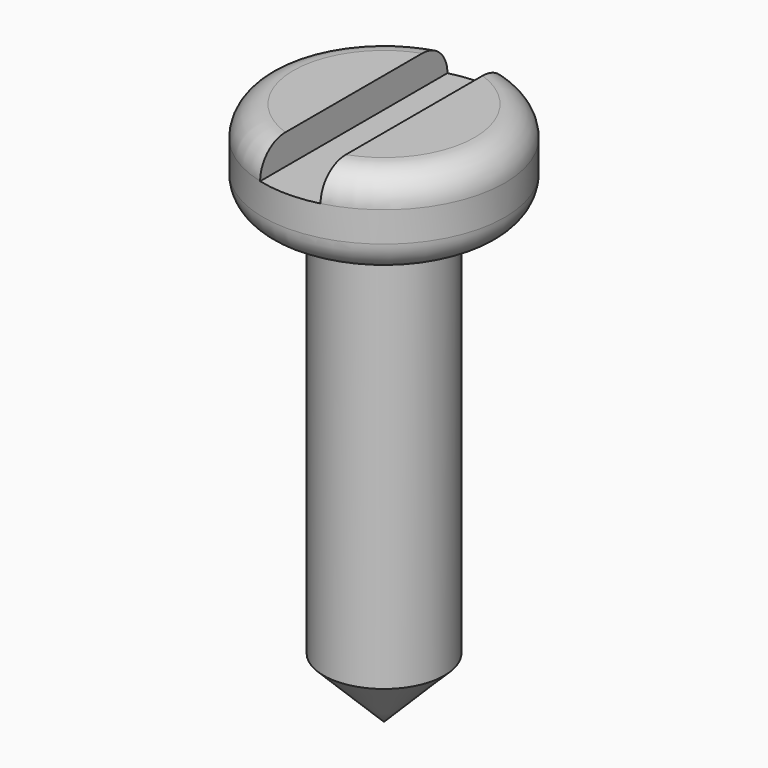
from build123d import *

# Parameters (mm, degrees)
F2_R     = 2.54
F3_W     = 5.08
F3_H     = 22.090304
F4_DEPTH = 2.54


with BuildPart() as f1:
    # F0 (on Front) → F1 (revolve)
    with BuildSketch(Plane.XZ):
        Polygon((0, 45.72), (0, 0), (5.08, 5.08), (5.08, 38.1), (10.16, 38.1), (10.16, 45.72), align=None)
    revolve(axis=Axis((0, 0, 22.86), (0, 0, 1)))

    # F2
    f2_edges = [f1.edges().sort_by_distance(p)[0] for p in [
        (-10.16, 0, 45.72),
        (-10.16, 0, 38.1),
    ]]
    fillet(f2_edges, radius=F2_R)

    # F3 (on face) → F4 (cut)
    with BuildSketch(Plane.XY.offset(45.72)):
        with Locations((0, -0.139493)):
            Rectangle(F3_W, F3_H)
    extrude(amount=-F4_DEPTH, mode=Mode.SUBTRACT)


solid = f1.part
